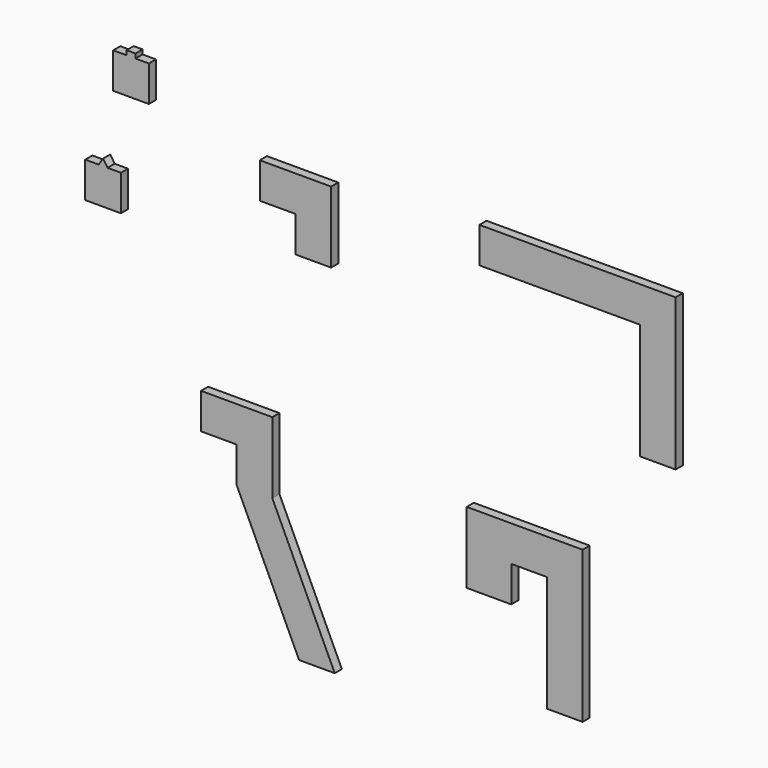
from build123d import *

# Parameters (mm, degrees)
F1_DEPTH = 3.175


with BuildPart() as f1:
    # F0 (on Front) → F1 (new body)
    with BuildSketch(Plane.XZ):
        Polygon((-16.475739, 26.54437), (-41.875739, 26.54437), (-41.875739, 13.84437), (-29.175739, 13.84437), (-29.175739, 1.14437), (-6.950739, -46.48063), (5.749261, -46.48063), (-16.475739, 1.14437), align=None)
        Polygon((4.454088, 105.624579), (-20.945912, 105.624579), (-20.945912, 92.924579), (-8.245912, 92.924579), (-8.245912, 80.224579), (4.454088, 80.224579), align=None)
        Polygon((81.288335, 8.23004), (81.288335, -33.04496), (93.988335, -33.04496), (93.988335, 20.93004), (52.713335, 20.93004), (52.713335, -4.46996), (68.588335, -4.46996), (68.588335, 8.23004), align=None)
        Polygon((127.102269, 110.801199), (57.252269, 110.801199), (57.252269, 98.101199), (114.402269, 98.101199), (114.402269, 56.826199), (127.102269, 56.826199), align=None)
        Polygon((-68.379502, 123.099409), (-73.142002, 123.099409), (-73.142002, 110.399409), (-60.442002, 110.399409), (-60.442002, 123.099409), (-65.204502, 123.099409), (-65.204502, 124.686909), (-68.379502, 124.686909), align=None)
        Polygon((-78.321708, 85.612997), (-83.084208, 85.612997), (-83.084208, 72.912997), (-70.384208, 72.912997), (-70.384208, 85.612997), (-75.146708, 85.612997), (-76.734208, 88.013297), align=None)
    extrude(amount=F1_DEPTH)


solid = f1.part
